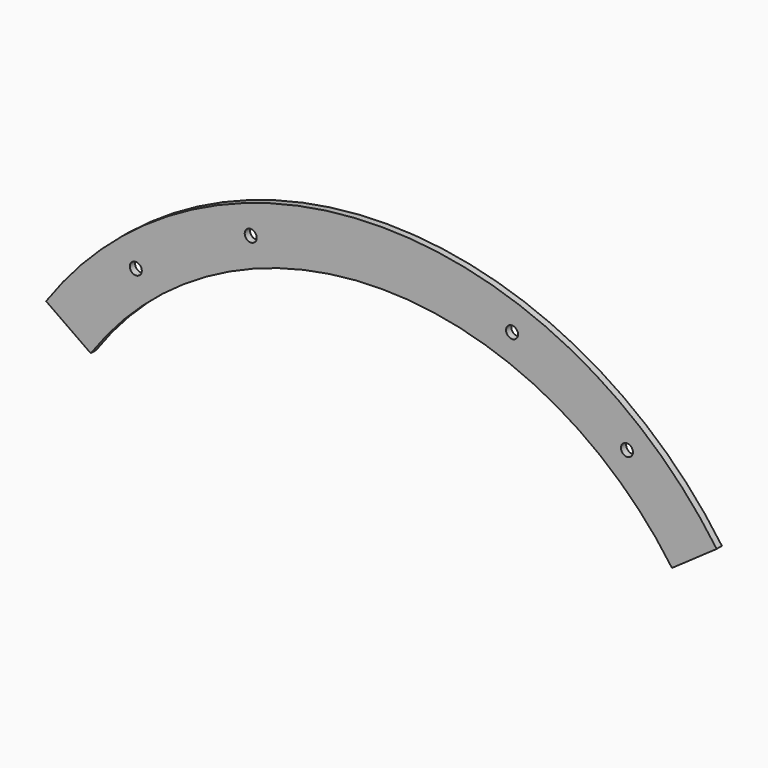
from build123d import *

# Parameters (mm, degrees)
F1_DEPTH = 6
F2_D     = 11


with BuildPart() as f1:
    # F0 (on Front) → F1 (new body)
    with BuildSketch(Plane.XZ):
        with BuildLine():
            Line((266.2244143939, 186.4123418141), (307.1820166084, 215.0911636316))
            ThreePointArc((307.1820166084, 215.0911636316), (0, 375), (-307.1820166084, 215.0911636316))
            Line((-307.1820166084, 215.0911636316), (-266.2244143939, 186.4123418141))
            ThreePointArc((-266.2244143939, 186.4123418141), (0, 325), (266.2244143939, 186.4123418141))
        make_face()
    extrude(amount=F1_DEPTH)

    # F2 (through all)
    with Locations(Plane(origin=(0, 0, 0), x_dir=(1, 0, 0), z_dir=(0, 1, 0))):
        with Locations((-224.9756633903, -268.1155550916), (-119.707050164, -328.8924172751), (119.707050164, -328.8924172751), (224.9756633903, -268.1155550916)):
            Hole(F2_D / 2)


solid = f1.part
